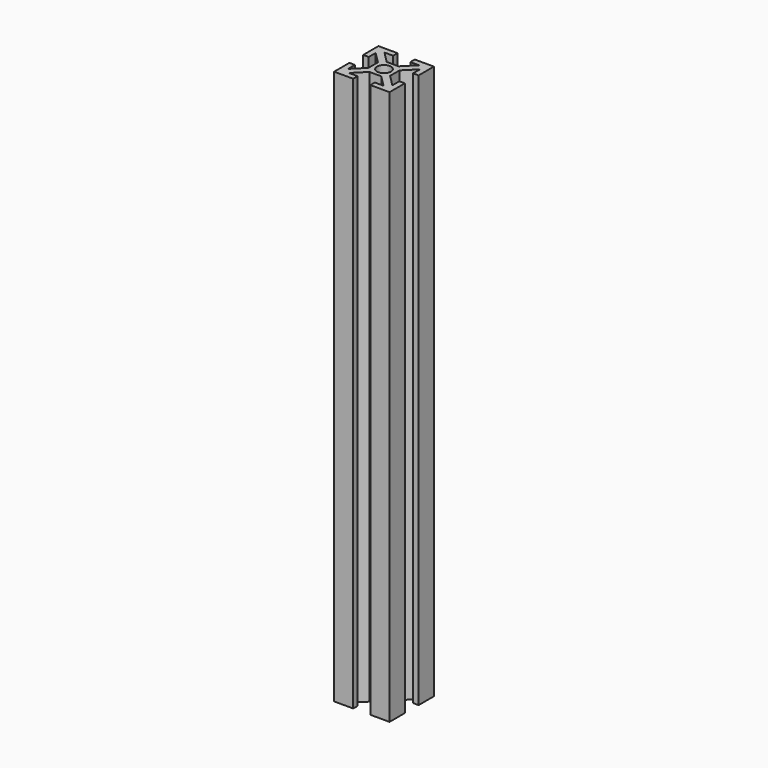
from build123d import *

# Parameters (mm, degrees)
SKETCH_W        = 20
SKETCH_H        = 20
PAD_DEPTH       = 200
SKETCH001_R     = 2.5
POCKET_DEPTH    = 200.001
POCKET001_DEPTH = 200.001


with BuildPart() as part:
    # Sketch → Pad (new body)
    with BuildSketch(Plane.XY):
        Rectangle(SKETCH_W, SKETCH_H)
    extrude(amount=PAD_DEPTH)

    # Sketch001 (on Face6 of Pad) → Pocket (cut, through all)
    with BuildSketch(Plane.XY.offset(200)):
        Circle(SKETCH001_R)
        Polygon((-3.1, 10), (3.1, 10), (3.1, 8), (6.232233, 8), (2.132233, 3.9), (-2.132233, 3.9), (-6.232233, 8), (-3.1, 8), align=None)
        Polygon((-3.1, -8), (-6.232233, -8), (-2.132233, -3.9), (2.132233, -3.9), (6.232233, -8), (3.1, -8), (3.1, -10), (-3.1, -10), align=None)
    extrude(amount=-POCKET_DEPTH, mode=Mode.SUBTRACT)

    # Sketch002 (on Face2 of Pocket) → Pocket001 (cut, through all)
    with BuildSketch(Plane(origin=(0, 0, 0), x_dir=(1, 0, 0), z_dir=(0, 0, -1))):
        Polygon((-10, -3.1), (-8, -3.1), (-8, -6.232233), (-3.9, -2.132233), (-3.9, 2.132233), (-8, 6.232233), (-8, 3.1), (-10, 3.1), align=None)
        Polygon((3.9, -2.132233), (3.9, 2.132233), (8, 6.232233), (8, 3.1), (10, 3.1), (10, -3.1), (8, -3.1), (8, -6.232233), align=None)
    extrude(amount=-POCKET001_DEPTH, mode=Mode.SUBTRACT)


solid = part.part
